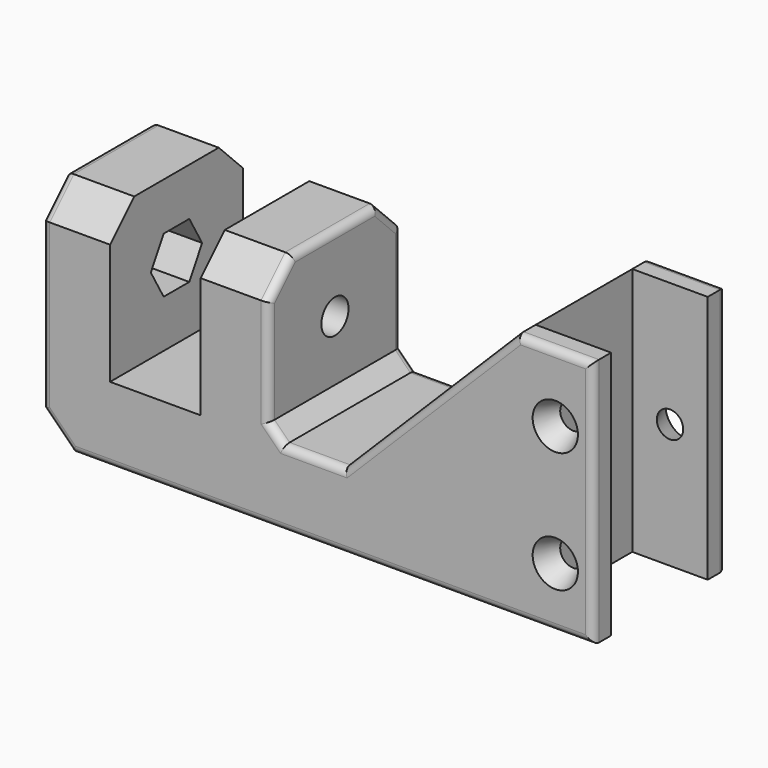
from build123d import *

# Parameters (mm, degrees)
CONE002_ROLL_ANGLE = -90
CONE001_ROLL_ANGLE = -90
CONE_ROLL_ANGLE    = 90
BOX_W              = 33
BOX_H              = 3
BOX_DEPTH          = 10
BOX001_W           = 33
BOX001_H           = 3
BOX001_DEPTH       = 10
CYLINDER_R         = 2.25
CYLINDER_DEPTH     = 30
PAD001_DEPTH       = 24
PAD_DEPTH          = 22
CHAMFER_SIZE       = 2
CHAMFER001_SIZE    = 4
CHAMFER002_SIZE    = 4
FILLET_R           = 1
FILLET_PITCH_ANGLE = -90


with BuildPart() as cone002:
    # Cone002 → Cone002 (revolve)
    with BuildSketch(Plane.XZ):
        Polygon((0, 0), (3, 0), (1.75, 3), (0, 3), align=None)
    revolve(axis=Axis((0, 0, 0), (0, 0, 1)))


with BuildPart() as cone002_1:
    # Cone002 roll: moved
    add(cone002.part.rotate(Axis((0, 0, 0), (1, 0, 0)), CONE002_ROLL_ANGLE))


with BuildPart() as cone002_2:
    # Cone002 placement: moved
    add(cone002_1.part.moved(Location((24, -21, -5))))


with BuildPart() as cone001:
    # Cone001 → Cone001 (revolve)
    with BuildSketch(Plane.XZ):
        Polygon((0, 0), (3, 0), (1.75, 3), (0, 3), align=None)
    revolve(axis=Axis((0, 0, 0), (0, 0, 1)))


with BuildPart() as cone001_1:
    # Cone001 roll: moved
    add(cone001.part.rotate(Axis((0, 0, 0), (1, 0, 0)), CONE001_ROLL_ANGLE))


with BuildPart() as cone001_2:
    # Cone001 placement: moved
    add(cone001_1.part.moved(Location((8, -21, -5))))


with BuildPart() as cone:
    # Cone → Cone (revolve)
    with BuildSketch(Plane.XZ):
        Polygon((0, 0), (3, 0), (1.75, 3), (0, 3), align=None)
    revolve(axis=Axis((0, 0, 0), (0, 0, 1)))


with BuildPart() as cone_1:
    # Cone roll: moved
    add(cone.part.rotate(Axis((0, 0, 0), (1, 0, 0)), CONE_ROLL_ANGLE))


with BuildPart() as cone_2:
    # Cone placement: moved
    add(cone_1.part.moved(Location((16.5, 1, -5))))


with BuildPart() as box:
    # Box → Box (new body)
    with BuildSketch(Plane(origin=(0, -2, -10), x_dir=(1, 0, 0), z_dir=(0, 0, 1))):
        with Locations((16.5, 1.5)):
            Rectangle(BOX_W, BOX_H)
    extrude(amount=BOX_DEPTH)


with BuildPart() as box001:
    # Box001 → Box001 (new body)
    with BuildSketch(Plane(origin=(0, -21, -10), x_dir=(1, 0, 0), z_dir=(0, 0, 1))):
        with Locations((16.5, 1.5)):
            Rectangle(BOX001_W, BOX001_H)
    extrude(amount=BOX001_DEPTH)


with BuildPart() as obj1:
    # Cylinder → Cylinder (new body)
    with BuildSketch(Plane(origin=(20, -10, 33), x_dir=(1, 0, 0), z_dir=(0, 0, 1))):
        Circle(CYLINDER_R)
    extrude(amount=CYLINDER_DEPTH)


with BuildPart() as obj2:
    # Sketch001 → Pad001 (new body)
    with BuildSketch(Plane(origin=(20, -10, 36), x_dir=(1, 0, 0), z_dir=(0, 0, 1))):
        Polygon((3.680608, -2.125), (3.680608, 2.125), (0, 4.25), (-3.680608, 2.125), (-3.680608, -2.125), (0, -4.25), align=None)
    extrude(amount=PAD001_DEPTH)


with BuildPart() as bed_holder_cnc:
    # Sketch → Pad (new body)
    with BuildSketch(Plane.XZ.offset(-1)):
        Polygon((0, 0), (33, 0), (10, 23), (10, 33), (30, 33), (30, 42), (10, 42), (10, 54), (30, 54), (30, 63), (0, 63), align=None)
    extrude(amount=PAD_DEPTH)

    # Cut: cut obj2
    add(obj2.part, mode=Mode.SUBTRACT)

    # Cut001: cut obj1
    add(obj1.part, mode=Mode.SUBTRACT)

    # Fusion: union Box, Box001
    add(box.part)
    add(box001.part)

    # Cut002: cut Cone
    add(cone_2.part, mode=Mode.SUBTRACT)

    # Cut003: cut Cone001
    add(cone001_2.part, mode=Mode.SUBTRACT)

    # Cut004: cut Cone002
    add(cone002_2.part, mode=Mode.SUBTRACT)

    # Chamfer
    chamfer_edges = [bed_holder_cnc.edges().sort_by_distance(p)[0] for p in [
        (10, -10, 33),
    ]]
    chamfer(chamfer_edges, length=CHAMFER_SIZE)

    # Chamfer001
    chamfer001_edges = [bed_holder_cnc.edges().sort_by_distance(p)[0] for p in [
        (30, -21, 37.5),
        (30, -21, 58.5),
        (30, 1, 37.5),
        (30, 1, 58.5),
    ]]
    chamfer(chamfer001_edges, length=CHAMFER001_SIZE)

    # Chamfer002
    chamfer002_edges = [bed_holder_cnc.edges().sort_by_distance(p)[0] for p in [
        (0, -10, 63),
    ]]
    chamfer(chamfer002_edges, length=CHAMFER002_SIZE)

    # Fillet
    fillet_edges = [bed_holder_cnc.edges().sort_by_distance(p)[0] for p in [
        (15, -21, 63),
        (2, -21, 61),
        (0, -21, 24.5),
        (16.5, -21, -10),
        (33, -21, -5),
        (21.5, -21, 11.5),
        (10, -21, 27),
        (19, -21, 33),
        (11, -21, 32),
        (15, 1, 63),
        (28, -1, 63),
        (30, -10, 63),
        (28, -19, 63),
        (2, 1, 61),
        (0, 1, 24.5),
        (21.5, 1, 11.5),
        (28, -19, 33),
        (10, 1, 27),
        (19, 1, 33),
        (28, -1, 33),
        (30, -10, 33),
        (11, 1, 32),
        (16.5, 1, -10),
        (33, 1, -5),
    ]]
    fillet(fillet_edges, radius=FILLET_R)


with BuildPart() as bed_holder_cnc_1:
    # Fillet pitch: moved
    add(bed_holder_cnc.part.rotate(Axis((0, 0, 0), (0, 1, 0)), FILLET_PITCH_ANGLE))


with BuildPart() as bed_holder_cnc_2:
    # Fillet placement: moved
    add(bed_holder_cnc_1.part)


solid = bed_holder_cnc_2.part
